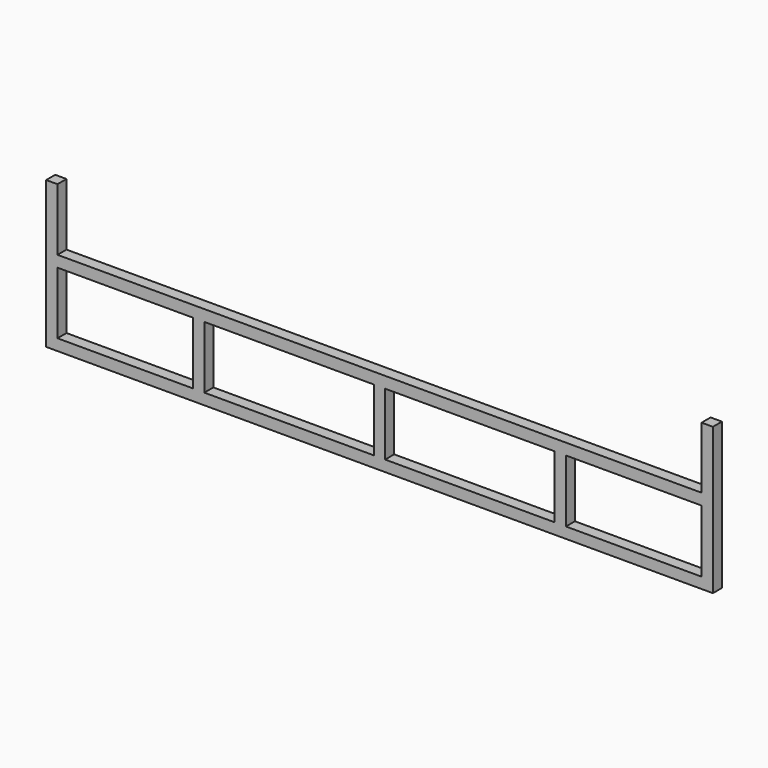
from build123d import *

# Parameters (mm, degrees)
F1_DEPTH = 25.4


with BuildPart() as f1:
    # F0 (on Front) → F1 (new body)
    with BuildSketch(Plane.XZ):
        Polygon((-342.974587, 37.98175), (-342.974587, 12.58175), (-317.366544, 12.58175), (-317.366544, 37.964271), align=None)
        Polygon((-342.766544, 342.78175), (-342.974587, 37.98175), (-317.366544, 37.964271), (-317.366544, 177.68175), (-317.366544, 203.08175), (-317.366544, 342.78175), align=None)
        Polygon((1130.225413, 36.976212), (1155.625413, 36.958875), (1155.625413, 341.758875), (1130.225413, 341.758875), (1130.225413, 203.08175), (1130.225413, 177.68175), align=None)
        Polygon((-317.366544, 37.964271), (-317.366544, 12.58175), (1155.625413, 12.58175), (1155.625413, 36.958875), (1130.225413, 36.976212), (825.329516, 37.184319), (799.929528, 37.201656), (419.033727, 37.461638), (406.325413, 37.470312), (393.729435, 37.47891), (12.737937, 37.738957), (-12.566544, 37.756228), align=None)
        Polygon((-317.366544, 203.08175), (-317.366544, 177.68175), (-12.566544, 177.68175), (12.833456, 177.68175), (393.729435, 177.68175), (406.429435, 177.68175), (419.129435, 177.68175), (800.025413, 177.68175), (825.425413, 177.68175), (1130.225413, 177.68175), (1130.225413, 203.08175), align=None)
        Polygon((-12.566544, 177.68175), (-12.566544, 37.756228), (12.737937, 37.738957), (12.833456, 177.68175), align=None)
        Polygon((406.429435, 177.68175), (406.325413, 37.470312), (419.033727, 37.461638), (419.129435, 177.68175), align=None)
        Polygon((393.729435, 177.68175), (393.729435, 37.47891), (406.325413, 37.470312), (406.429435, 177.68175), align=None)
        Polygon((799.929528, 37.201656), (825.329516, 37.184319), (825.425413, 177.68175), (800.025413, 177.68175), align=None)
    extrude(amount=F1_DEPTH)


solid = f1.part
